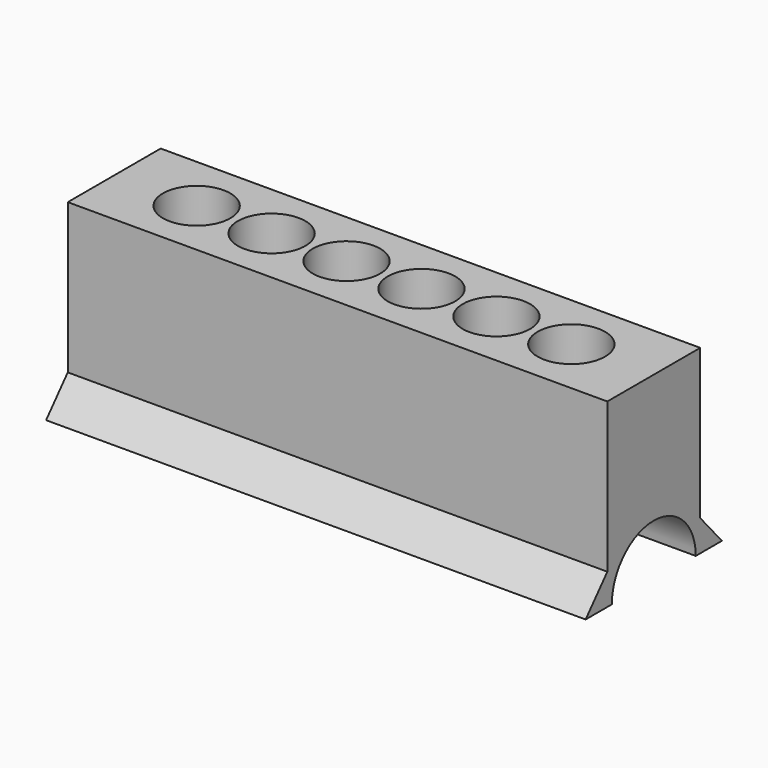
from build123d import *

# Parameters (mm, degrees)
F0_W     = 196.85
F0_H     = 254
F1_DEPTH = 914.4
F3_D     = 114.3
F5_DEPTH = 914.4


with BuildPart() as f1:
    # F0 (on Right) → F1 (new body)
    with BuildSketch(Plane.YZ):
        Rectangle(F0_W, F0_H)
        Polygon((144.3510135603, -179.6291153114), (98.425, -127), (-98.425, -127), (-144.3510135603, -179.6291153114), align=None)
    extrude(amount=-F1_DEPTH)

    # F3 (through all)
    with Locations(Plane.XY.offset(127)):
        with Locations((-774.7, 0), (-647.7, 0), (-520.7, 0), (-393.7, 0), (-266.7, 0), (-139.7, 0)):
            Hole(F3_D / 2)

    # F4 (on face) → F5 (cut)
    with BuildSketch(Plane.YZ):
        with BuildLine():
            Line((-88.9, -179.6291153114), (88.9, -179.6291153114))
            ThreePointArc((88.9, -179.6291153114), (0, -90.7291153114), (-88.9, -179.6291153114))
        make_face()
    extrude(amount=-F5_DEPTH, mode=Mode.SUBTRACT)


solid = f1.part
